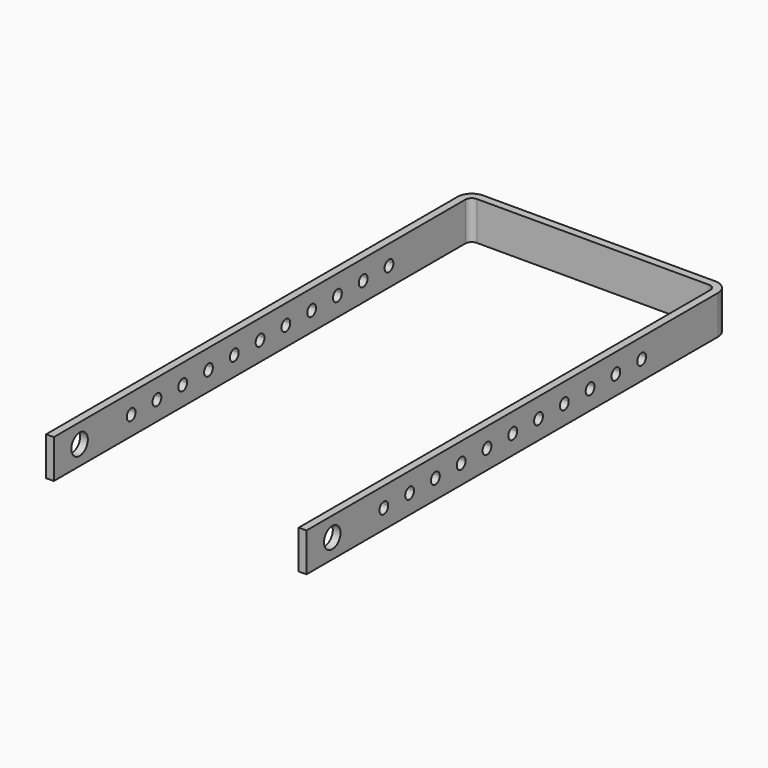
from build123d import *

# Parameters (mm, degrees)
F1_DEPTH = 30
F2_R     = 8
F2_R_2   = 4.25
F3_DEPTH = 202.001


with BuildPart() as f1:
    # F0 (on Top) → F1 (new body)
    with BuildSketch(Plane.XY):
        with BuildLine():
            Line((-101, 376.497907), (-101, -22.502093))
            Line((-101, -22.502093), (-95, -22.502093))
            Line((-95, -22.502093), (-95, 376.497907))
            ThreePointArc((-95, 376.497907), (-93.535534, 380.033441), (-90, 381.497907))
            Line((-90, 381.497907), (0, 381.497907))
            Line((0, 381.497907), (90, 381.497907))
            ThreePointArc((90, 381.497907), (93.535534, 380.033441), (95, 376.497907))
            Line((95, 376.497907), (95, -22.502093))
            Line((95, -22.502093), (101, -22.502093))
            Line((101, -22.502093), (101, 376.497907))
            ThreePointArc((101, 376.497907), (97.778175, 384.276082), (90, 387.497907))
            Line((90, 387.497907), (0, 387.497907))
            Line((0, 387.497907), (-90, 387.497907))
            ThreePointArc((-90, 387.497907), (-97.778175, 384.276082), (-101, 376.497907))
        make_face()
    extrude(amount=F1_DEPTH)

    # F2 (on face) → F3 (cut, through all)
    with BuildSketch(Plane(origin=(-101, 0, 0), x_dir=(0, -1, 0), z_dir=(-1, 0, 0))):
        with Locations((-2.497907, 15)):
            Circle(F2_R)
        with Locations((-52.497907, 15)):
            Circle(F2_R_2)
        with Locations((-52.497907, 14.777514)):
            Circle(F2_R_2)
        with Locations((-77.497907, 15)):
            Circle(F2_R_2)
        with Locations((-77.497907, 14.777514)):
            Circle(F2_R_2)
        with Locations((-102.497907, 15)):
            Circle(F2_R_2)
        with Locations((-102.497907, 14.777514)):
            Circle(F2_R_2)
        with Locations((-127.497907, 15)):
            Circle(F2_R_2)
        with Locations((-127.497907, 14.777514)):
            Circle(F2_R_2)
        with Locations((-152.497907, 15)):
            Circle(F2_R_2)
        with Locations((-152.497907, 14.777514)):
            Circle(F2_R_2)
        with Locations((-177.497907, 15)):
            Circle(F2_R_2)
        with Locations((-177.497907, 14.777514)):
            Circle(F2_R_2)
        with Locations((-202.497907, 15)):
            Circle(F2_R_2)
        with Locations((-202.497907, 14.777514)):
            Circle(F2_R_2)
        with Locations((-227.497907, 15)):
            Circle(F2_R_2)
        with Locations((-227.497907, 14.777514)):
            Circle(F2_R_2)
        with Locations((-252.497907, 15)):
            Circle(F2_R_2)
        with Locations((-252.497907, 14.777514)):
            Circle(F2_R_2)
        with Locations((-277.497907, 15)):
            Circle(F2_R_2)
        with Locations((-277.497907, 14.777514)):
            Circle(F2_R_2)
        with Locations((-302.497907, 15)):
            Circle(F2_R_2)
        with Locations((-302.497907, 14.777514)):
            Circle(F2_R_2)
    extrude(amount=-F3_DEPTH, mode=Mode.SUBTRACT)


solid = f1.part
